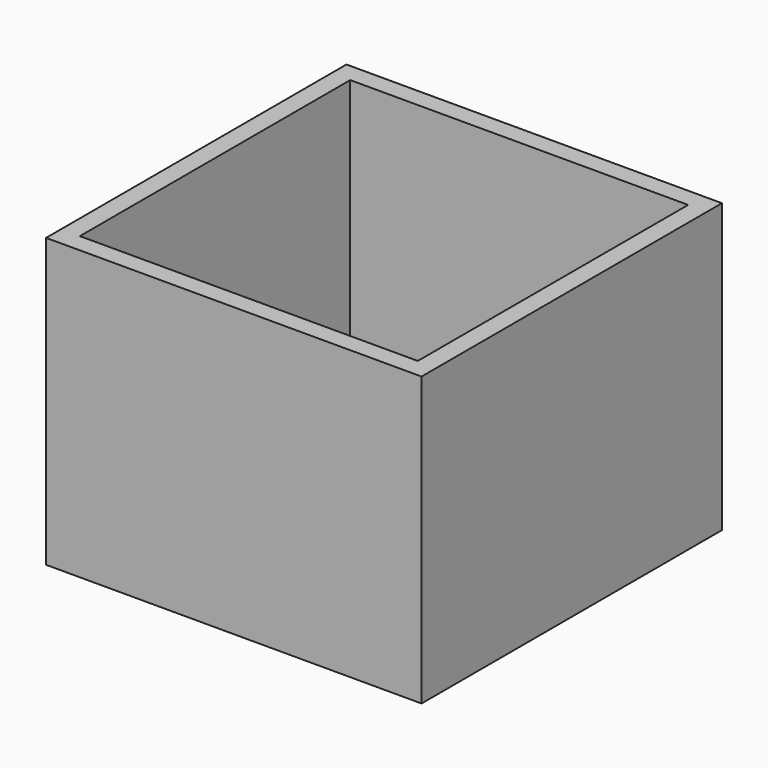
from build123d import *

# Parameters (mm, degrees)
SKETCH_W     = 30
SKETCH_H     = 30
PAD_DEPTH    = 23
SKETCH001_W  = 27
SKETCH001_H  = 27
POCKET_DEPTH = 20


with BuildPart() as part:
    # Sketch → Pad (new body)
    with BuildSketch(Plane.XY):
        Rectangle(SKETCH_W, SKETCH_H)
    extrude(amount=PAD_DEPTH)

    # Sketch001 (on Face6 of Pad) → Pocket (cut)
    with BuildSketch(Plane.XY.offset(23)):
        Rectangle(SKETCH001_W, SKETCH001_H)
    extrude(amount=-POCKET_DEPTH, mode=Mode.SUBTRACT)


solid = part.part
